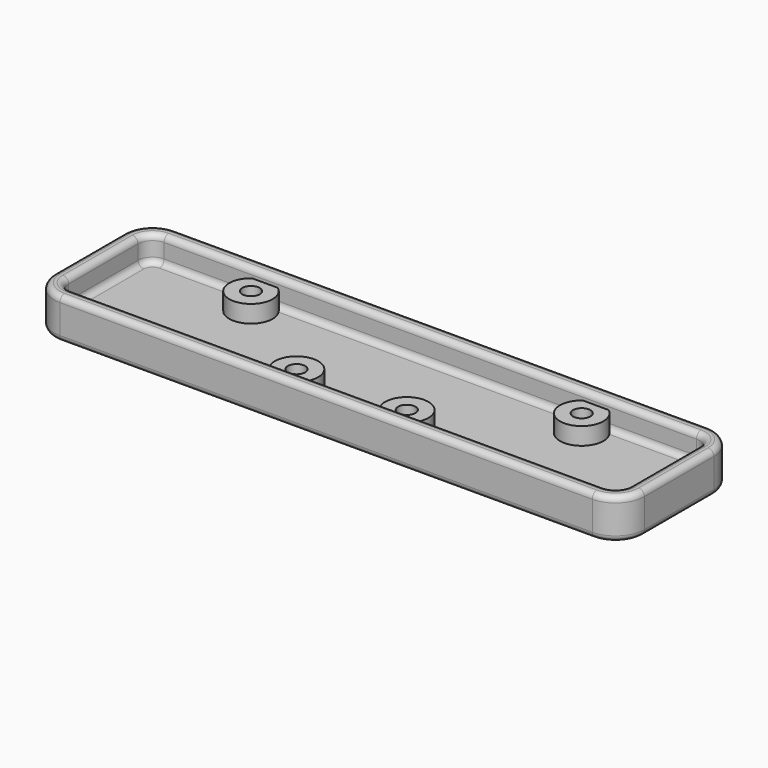
from build123d import *

# Parameters (mm, degrees)
F0_W     = 102
F0_H     = 25
F1_DEPTH = 7
F2_R     = 5
F3_T     = -2.5
F4_R     = 1
F5_R     = 3.75
F6_DEPTH = 3
F7_R     = 1.5
F8_DEPTH = 3


with BuildPart() as f1:
    # F0 (on Top) → F1 (new body)
    with BuildSketch(Plane.XY):
        Rectangle(F0_W, F0_H)
    extrude(amount=F1_DEPTH)

    # F2
    f2_edges = [f1.edges().sort_by_distance(p)[0] for p in [
        (-51, -12.5, 3.5),
        (-51, 12.5, 3.5),
        (51, -12.5, 3.5),
        (51, 12.5, 3.5),
    ]]
    fillet(f2_edges, radius=F2_R)

    # F3
    f3_openings = [f1.faces().sort_by_distance(p)[0] for p in [
        (0, 0, 7),
    ]]
    offset(amount=F3_T, openings=f3_openings)

    # F4
    f4_edges = [f1.edges().sort_by_distance(p)[0] for p in [
        (-48.5, 0, 2.5),
        (-47.767767, -9.267767, 2.5),
        (0, -10, 2.5),
        (47.767767, -9.267767, 2.5),
        (48.5, 0, 2.5),
        (47.767767, 9.267767, 2.5),
        (0, 10, 2.5),
        (-47.767767, 9.267767, 2.5),
        (0, 12.5, 7),
        (-49.535534, 11.035534, 7),
        (-51, 0, 7),
        (-49.535534, -11.035534, 7),
        (0, -12.5, 7),
        (49.535534, -11.035534, 7),
        (51, 0, 7),
        (49.535534, 11.035534, 7),
        (0, 10, 7),
        (47.767767, 9.267767, 7),
        (48.5, 0, 7),
        (47.767767, -9.267767, 7),
        (0, -10, 7),
        (-47.767767, -9.267767, 7),
        (-48.5, 0, 7),
        (-47.767767, 9.267767, 7),
        (0, 12.5, 0),
        (49.535534, 11.035534, 0),
        (-49.535534, 11.035534, 0),
        (51, 0, 0),
        (-51, 0, 0),
        (49.535534, -11.035534, 0),
        (-49.535534, -11.035534, 0),
        (0, -12.5, 0),
    ]]
    fillet(f4_edges, radius=F4_R)

    # F5 (on face) → F6 (join)
    with BuildSketch(Plane.XY.offset(2.5)):
        with Locations((-9.525, -6.985)):
            Circle(F5_R)
        with Locations((9.525, -6.985)):
            Circle(F5_R)
        with Locations((-28.575, 6.985)):
            Circle(F5_R)
        with Locations((28.575, 6.985)):
            Circle(F5_R)
    extrude(amount=F6_DEPTH)

    # F7 (on face) → F8 (cut, through all)
    with BuildSketch(Plane.XY.offset(5.5)):
        with Locations((-9.525, -6.985)):
            Circle(F7_R)
        with Locations((-28.575, 6.985)):
            Circle(F7_R)
        with Locations((9.525, -6.985)):
            Circle(F7_R)
        with Locations((28.575, 6.985)):
            Circle(F7_R)
    extrude(amount=-F8_DEPTH, mode=Mode.SUBTRACT)


solid = f1.part
